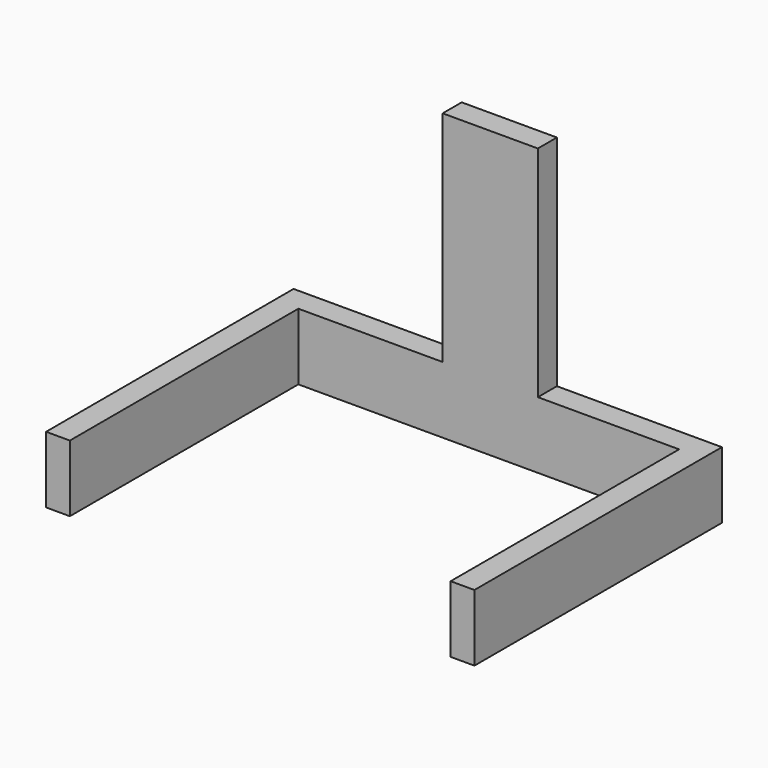
from build123d import *

# Parameters (mm, degrees)
F0_W     = 12.7
F0_H     = 38.1
F1_DEPTH = 3.175
F3_DEPTH = 3.175
F4_W     = 3.175
F4_H     = 8.89
F5_DEPTH = 38.1


with BuildPart() as f1:
    # F0 (on Front) → F1 (new body)
    with BuildSketch(Plane.XZ):
        Rectangle(F0_W, F0_H)
    extrude(amount=F1_DEPTH)

    # F2 (on face) → F3 (join)
    with BuildSketch(Plane.XZ.offset(3.175)):
        Polygon((-4.688735, -19.05), (6.35, -19.05), (28.369022, -19.05), (28.369022, -10.16), (3.864823, -10.16), (-6.35, -10.16), (-28.780978, -10.16), (-28.780978, -19.05), align=None)
    extrude(amount=-F3_DEPTH)

    # F4 (on face) → F5 (join)
    with BuildSketch(Plane.XZ.offset(3.175)):
        with Locations((-27.193478, -14.605)):
            Rectangle(F4_W, F4_H)
        with Locations((26.781522, -14.605)):
            Rectangle(F4_W, F4_H)
    extrude(amount=F5_DEPTH)


solid = f1.part
